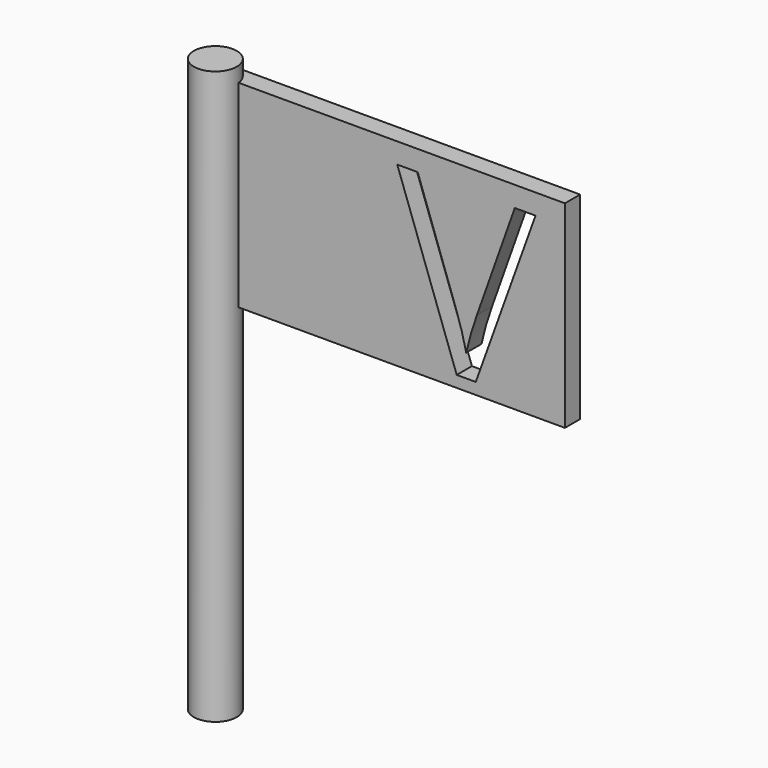
from build123d import *

# Parameters (mm, degrees)
F0_R     = 1.905
F1_DEPTH = 25.4
F2_W     = 30.2913453197
F2_H     = 17.5393885002
F4_DEPTH = 1.6891


with BuildPart() as f1:
    # F0 (on Top) → F1 (new body, symmetric)
    with BuildSketch(Plane.XY):
        with Locations((-29.5697990805, 21.6293018311)):
            Circle(F0_R)
    extrude(amount=F1_DEPTH, both=True)


with BuildPart() as f1_1:
    # F3: moved
    add(f1.part.moved(Location((0, -21.844, 0))))

    # F2 (on Front) → F4 (join)
    with BuildSketch(Plane.XZ):
        with Locations((-13.8722935808, 15.2848851867)):
            Rectangle(F2_W, F2_H)
        with BuildLine():
            Line((-6.5367437352, 12.7834337886), (-3.1749898142, 22.2440018152))
            Line((-3.1749898142, 22.2440018152), (-1.3363293843, 22.2440018152))
            Line((-1.3363293843, 22.2440018152), (-6.6365659302, 7.5314983048))
            Line((-6.6365659302, 7.5314983048), (-8.3271031031, 7.5314983048))
            Line((-8.3271031031, 7.5314983048), (-13.6015790825, 22.2440018152))
            Line((-13.6015790825, 22.2440018152), (-11.788679219, 22.2440018152))
            Line((-11.788679219, 22.2440018152), (-8.4076048732, 12.7254725141))
            add(Edge.make_bspline(
                [(-8.4076048732, 12.7254725141), (-7.8247720574, 11.0832364033), (-7.483444552, 9.5343823459)],
                knots=[0, 0, 0, 1, 1, 1], degree=2))
            add(Edge.make_bspline(
                [(-7.483444552, 9.5343823459), (-7.119576551, 11.1637381734), (-6.5367437352, 12.7834337886)],
                knots=[0, 0, 0, 1, 1, 1], degree=2))
        make_face(mode=Mode.SUBTRACT)
    extrude(amount=-F4_DEPTH)


solid = f1_1.part
